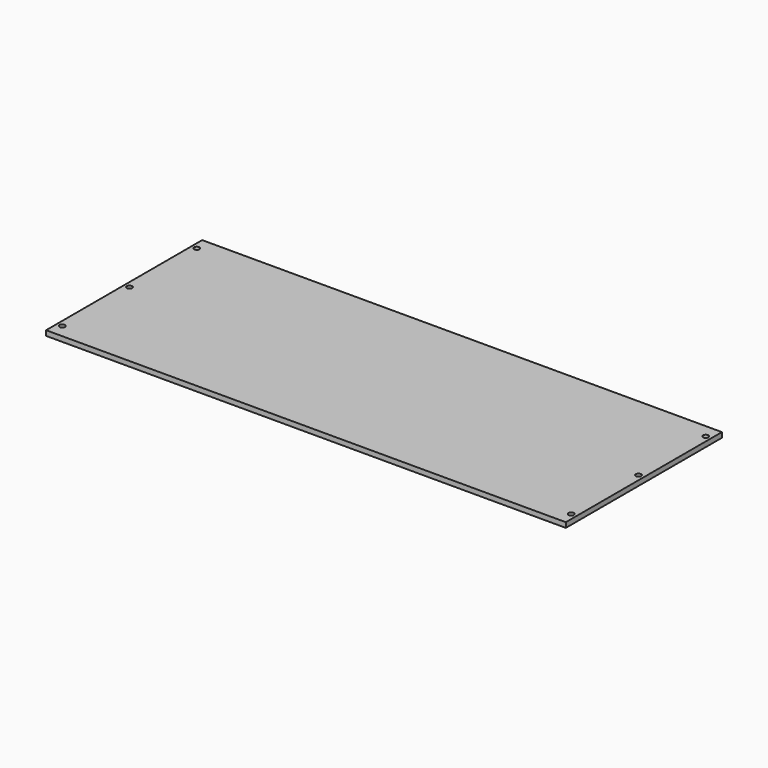
from build123d import *

# Parameters (mm, degrees)
F0_W     = 578
F0_H     = 217
F0_R     = 3
F1_DEPTH = 5.6


with BuildPart() as f1:
    # F0 (on Top) → F1 (new body)
    with BuildSketch(Plane.XY):
        Rectangle(F0_W, F0_H)
        with Locations((-283, -93.5)):
            Circle(F0_R, mode=Mode.SUBTRACT)
        with Locations((283, -93.5)):
            Circle(F0_R, mode=Mode.SUBTRACT)
        with Locations((-283, 0)):
            Circle(F0_R, mode=Mode.SUBTRACT)
        with Locations((-283, 93.5)):
            Circle(F0_R, mode=Mode.SUBTRACT)
        with Locations((283, 0)):
            Circle(F0_R, mode=Mode.SUBTRACT)
        with Locations((283, 93.5)):
            Circle(F0_R, mode=Mode.SUBTRACT)
    extrude(amount=F1_DEPTH)


solid = f1.part
